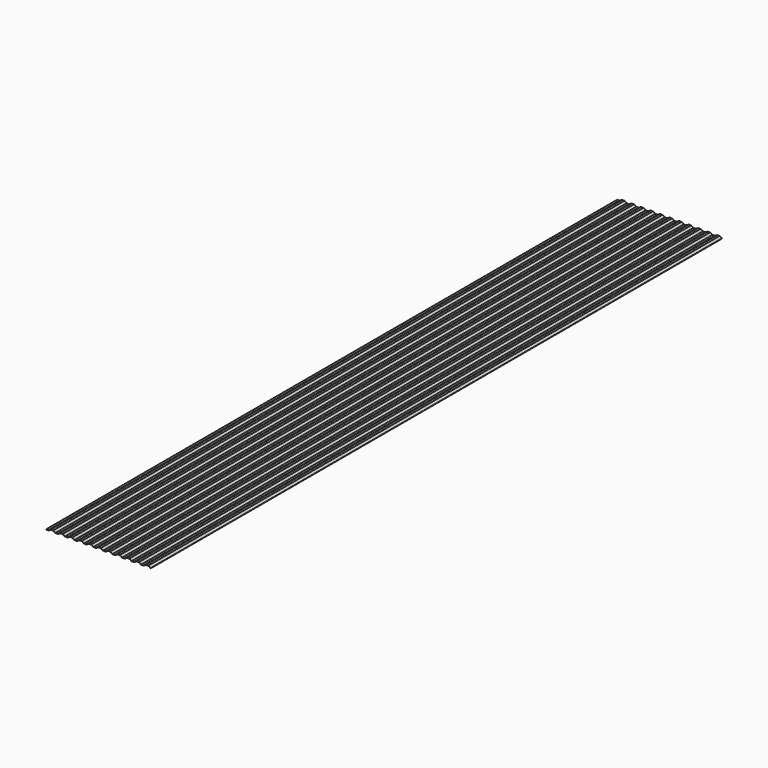
from build123d import *

# Parameters (mm, degrees)
PAD_DEPTH = 3000


with BuildPart() as part:
    # Sketch → Pad (new body)
    with BuildSketch(Plane.XZ):
        Polygon((0, 0), (10, 0), (20, 5.773503), (30, 5.773503), (40, 0), (50, 0), (60, 5.773503), (70, 5.773503), (80, 0), (90, 0), (100, 5.773503), (110, 5.773503), (120, 0), (130, 0), (140, 5.773503), (150, 5.773503), (160, 0), (170, 0), (180, 5.773503), (190, 5.773503), (200, 0), (210, 0), (220, 5.773503), (230, 5.773503), (240, 0), (250, 0), (260, 5.773503), (270, 5.773503), (280, 0), (290, 0), (300, 5.773503), (310, 5.773503), (320, 0), (330, 0), (340, 5.773503), (350, 5.773503), (360, 0), (370, 0), (380, 5.773503), (390, 5.773503), (400, 0), (410, 0), (420, 5.773503), (430, 5.773503), (440, 0), (440, 1), (430, 6.773503), (420, 6.773503), (410, 1), (400, 1), (390, 6.773503), (380, 6.773503), (370, 1), (360, 1), (350, 6.773503), (340, 6.773503), (330, 1), (320, 1), (310, 6.773503), (300, 6.773503), (290, 1), (280, 1), (270, 6.773503), (260, 6.773503), (250, 1), (240, 1), (230, 6.773503), (220, 6.773503), (210, 1), (200, 1), (190, 6.773503), (180, 6.773503), (170, 1), (160, 1), (150, 6.773503), (140, 6.773503), (130, 1), (120, 1), (110, 6.773503), (100, 6.773503), (90, 1), (80, 1), (70, 6.773503), (60, 6.773503), (50, 1), (40, 1), (30, 6.773503), (20, 6.773503), (10, 1), (0, 1), align=None)
    extrude(amount=PAD_DEPTH)


solid = part.part
